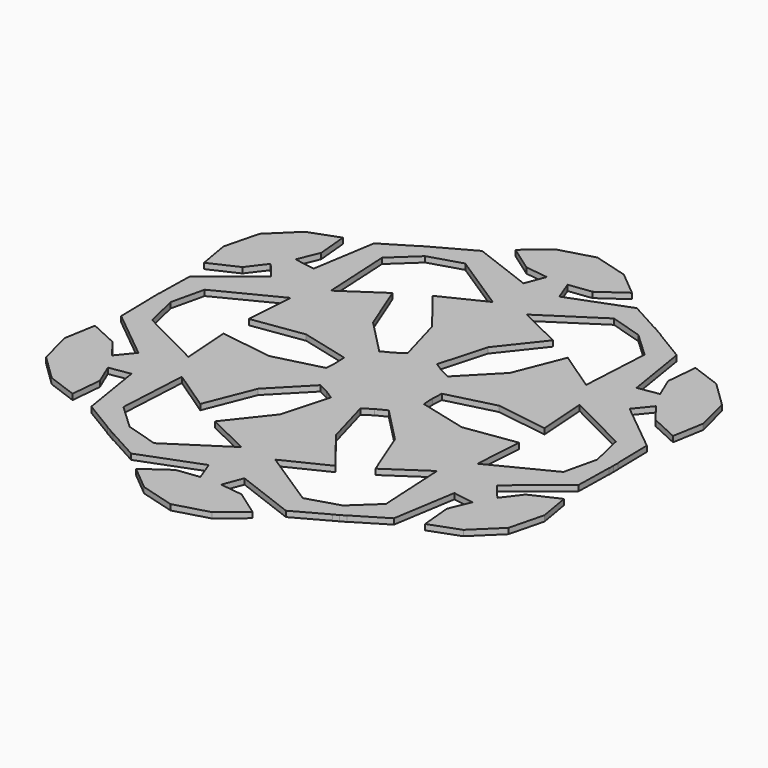
from build123d import *

# Parameters (mm, degrees)
F1_DEPTH = 2
F4_COUNT = 6
F4_ANGLE = 300


with BuildPart() as f1:
    # F0 (on Top) → F1 (new body)
    with BuildSketch(Plane.XY):
        Polygon((0, 95), (0, 0), (9.0951109305, 0), (15.0057672536, 11.6038580467), (5.1223551854, 16.6381709278), (9.968268685, 33.868085593), (21.4383043349, 48.3848489821), (6.0254437849, 55.9120550752), (26.4652259648, 69.2315325141), (38.8642698526, 65.456263721), (42.6333136857, 69.7637423873), (27.5425929576, 78.0722051859), (6.3733253418, 70.0200916975), (3.6955948453, 77.0599320531), (11.7607787251, 78.0722051859), (20.7214262336, 84.4079181552), (12.1189001948, 91.5766954422), align=None)
    extrude(amount=F1_DEPTH)

    # F2: F1 across plane


with BuildPart() as f1_1:
    add(f1.part)
    add(f1.part.mirror(Plane.YZ))

    # F4: F1 ×6 about axis
    f4_axis = Axis((0, 0, 4.1130185127), (0, 0, 1))


with BuildPart() as f1_2:
    add(f1_1.part)
    for i in range(1, F4_COUNT):
        add(f1_1.part.rotate(f4_axis, i * F4_ANGLE / (F4_COUNT - 1)))


solid = f1_2.part
